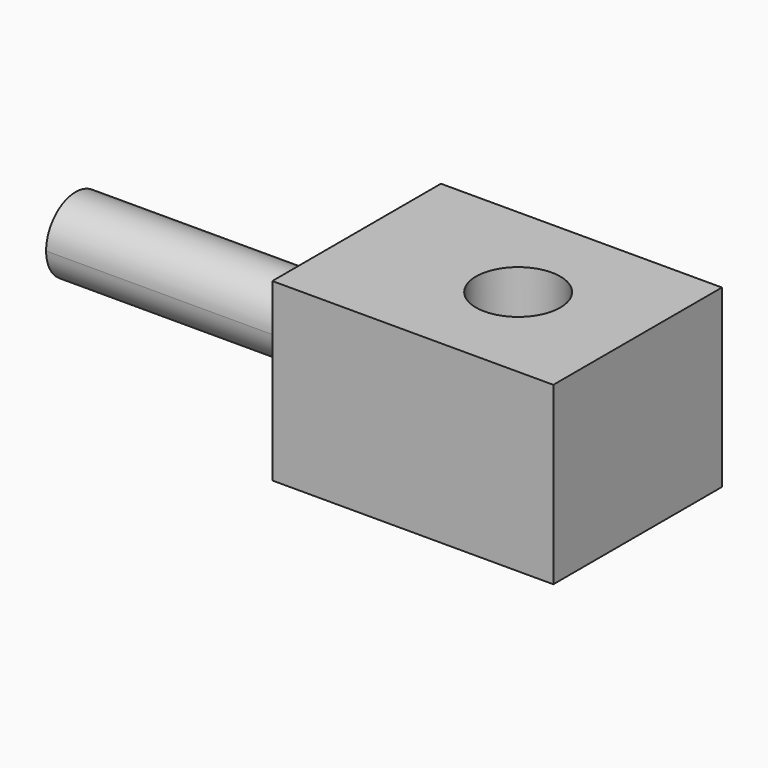
from build123d import *

# Parameters (mm, degrees)
F0_W     = 40
F0_H     = 30
F1_DEPTH = 25
F2_R     = 9.873161
F3_DEPTH = 10
F4_R     = 6
F5_DEPTH = 25
F7_DEPTH = 40


with BuildPart() as f1:
    # F0 (on Top) → F1 (new body)
    with BuildSketch(Plane.XY):
        with Locations((6.881981, 0)):
            Rectangle(F0_W, F0_H)
    extrude(amount=F1_DEPTH)

    # F2 (on face) → F3 (cut)
    with BuildSketch(Plane(origin=(0, 0, 0), x_dir=(1, 0, 0), z_dir=(0, 0, -1))):
        with Locations((9.873161, 0)):
            Circle(F2_R)
    extrude(amount=-F3_DEPTH, mode=Mode.SUBTRACT)

    # F4 (on face) → F5 (cut)
    with BuildSketch(Plane(origin=(0, 0, 10), x_dir=(1, 0, 0), z_dir=(0, 0, -1))):
        with Locations((9.873161, 0)):
            Circle(F4_R)
    extrude(amount=-F5_DEPTH, mode=Mode.SUBTRACT)

    # F6 (on face) → F7 (join)
    with BuildSketch(Plane(origin=(-13.118019, 0, 0), x_dir=(0, -1, 0), z_dir=(-1, 0, 0))):
        with BuildLine():
            ThreePointArc((-2.117814, 6.992008), (2.871889, 7.40042), (5.256141, 11.802609))
            ThreePointArc((5.256141, 11.802609), (2.376464, 16.490832), (-3.107196, 16.04199))
            ThreePointArc((-3.107196, 16.04199), (-0.82282, 14.103278), (0.031131, 11.231389))
            ThreePointArc((0.031131, 11.231389), (-0.536786, 8.854926), (-2.117814, 6.992008))
        make_face()
    extrude(amount=F7_DEPTH)


solid = f1.part
